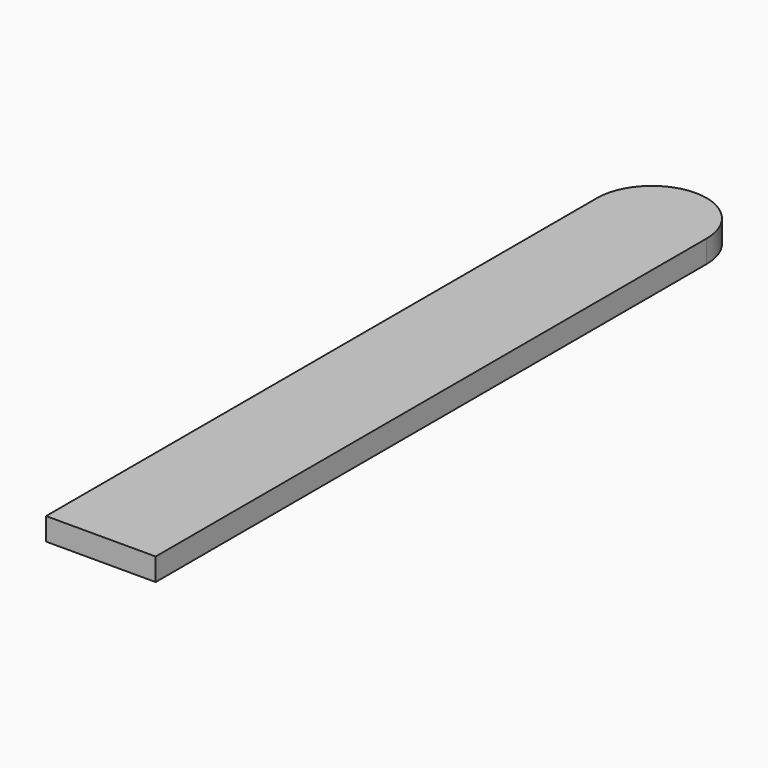
from build123d import *

# Parameters (mm, degrees)
F0_W     = 12.354482
F0_H     = 77.65676
F1_DEPTH = 2.54


with BuildPart() as f1:
    # F0 (on Top) → F1 (new body)
    with BuildSketch(Plane.XY):
        Rectangle(F0_W, F0_H)
        with BuildLine():
            Line((-6.177241, 38.82838), (6.177241, 38.82838))
            ThreePointArc((6.177241, 38.82838), (0, 45.005622), (-6.177241, 38.82838))
        make_face()
    extrude(amount=F1_DEPTH)


solid = f1.part
